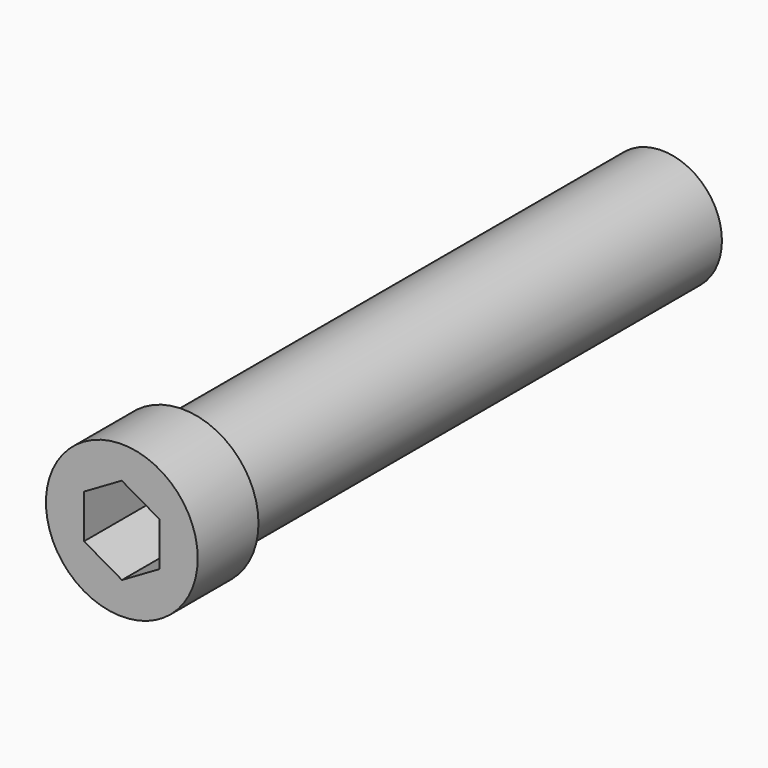
from build123d import *

# Parameters (mm, degrees)
F0_R     = 1.905
F1_DEPTH = 19.05
F2_R     = 2.413
F3_DEPTH = 2.413
F5_DEPTH = 2.7686


with BuildPart() as f1:
    # F0 (on Front) → F1 (new body)
    with BuildSketch(Plane.XZ):
        Circle(F0_R)
    extrude(amount=F1_DEPTH)

    # F2 (on face) → F3 (join)
    with BuildSketch(Plane.XZ.offset(19.05)):
        Circle(F2_R)
    extrude(amount=F3_DEPTH)

    # F4 (on face) → F5 (cut)
    with BuildSketch(Plane.XZ.offset(21.463)):
        Polygon((-0.00353, 1.389058), (-1.204725, 0.691472), (-1.201194, -0.697586), (0.00353, -1.389058), (1.204725, -0.691472), (1.201194, 0.697586), align=None)
    extrude(amount=-F5_DEPTH, mode=Mode.SUBTRACT)


solid = f1.part
